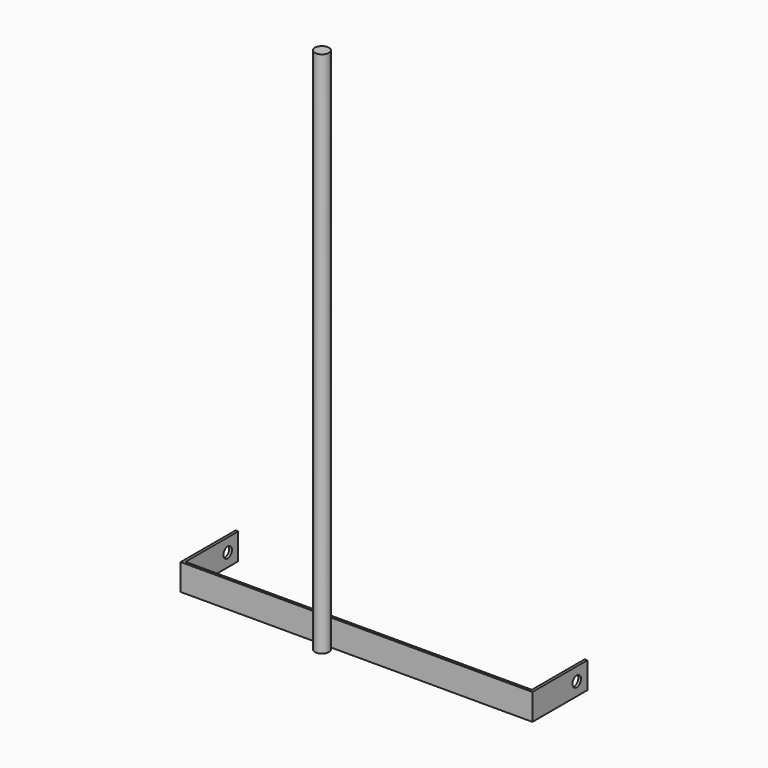
from build123d import *

# Parameters (mm, degrees)
F0_W     = 3
F0_H     = 75
F1_DEPTH = 30
F2_R     = 6
F3_DEPTH = 500
F4_R     = 8
F5_DEPTH = 600


with BuildPart() as f1:
    # F0 (on Top) → F1 (new body)
    with BuildSketch(Plane.XY):
        Polygon((-167.031321, 3), (-167.031321, 0), (232.968679, 0), (232.968679, 3), (229.968679, 3), (-164.031321, 3), align=None)
        with Locations((-165.531321, 40.5)):
            Rectangle(F0_W, F0_H)
        with Locations((231.468679, 40.5)):
            Rectangle(F0_W, F0_H)
    extrude(amount=F1_DEPTH)

    # F2 (on face) → F3 (cut)
    with BuildSketch(Plane(origin=(-167.031321, 0, 0), x_dir=(0, -1, 0), z_dir=(-1, 0, 0))):
        with Locations((-63, 15)):
            Circle(F2_R)
    extrude(amount=-F3_DEPTH, mode=Mode.SUBTRACT)

    # F4 (on Top) → F5 (join)
    with BuildSketch(Plane.XY):
        with Locations((0, -8)):
            Circle(F4_R)
    extrude(amount=F5_DEPTH)


solid = f1.part
